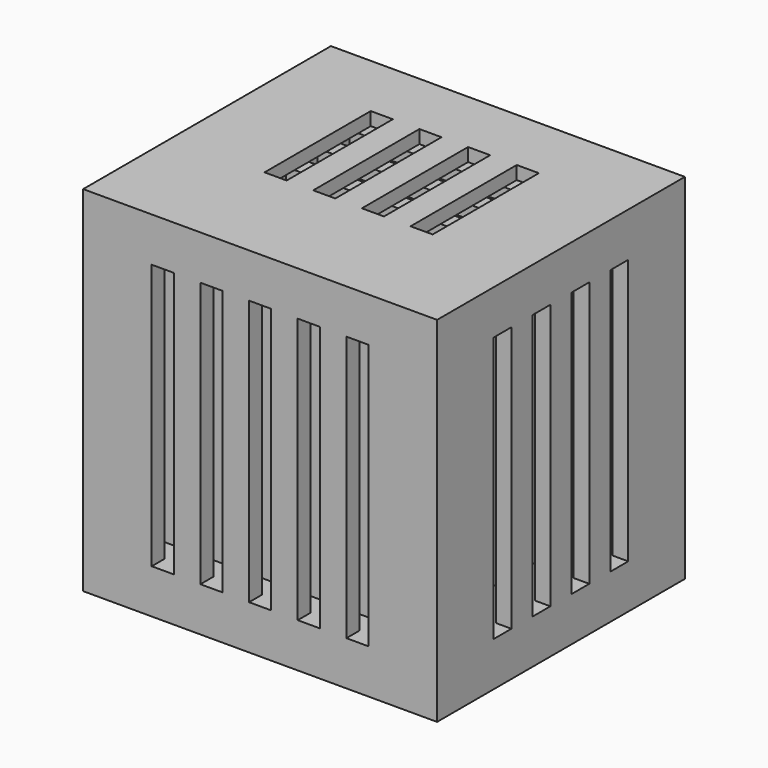
from build123d import *

# Parameters (mm, degrees)
SKETCH_W        = 40
SKETCH_H        = 35
PAD_DEPTH       = 40
SKETCH001_R     = 12.5
POCKET_DEPTH    = 40.001
SKETCH002_W     = 24.731892
SKETCH002_H     = 24.731892
POCKET001_DEPTH = 35
POCKET002_DEPTH = 35
SKETCH004_W     = 2.5
SKETCH004_H     = 30
POCKET003_DEPTH = 40.001
SKETCH005_W     = 2.5
SKETCH005_H     = 30
POCKET004_DEPTH = 21
SKETCH006_W     = 39.144078
SKETCH006_H     = 33.985684
PAD001_DEPTH    = 3
SKETCH007_W     = 18
SKETCH007_H     = 2
POCKET005_DEPTH = 5
SKETCH008_W     = 2.5
SKETCH008_H     = 15
POCKET006_DEPTH = 1.5
SKETCH009_W     = 21
SKETCH009_H     = 2.5
POCKET007_DEPTH = 1.5


with BuildPart() as part:
    # Sketch → Pad (new body)
    with BuildSketch(Plane.XY):
        with Locations((0, -2.5)):
            Rectangle(SKETCH_W, SKETCH_H)
    extrude(amount=PAD_DEPTH)

    # Sketch001 (on Face5 of Pad) → Pocket (cut, through all)
    with BuildSketch(Plane(origin=(0, 0, 0), x_dir=(1, 0, 0), z_dir=(0, 0, -1))):
        Circle(SKETCH001_R)
    extrude(amount=-POCKET_DEPTH, mode=Mode.SUBTRACT)

    # Sketch002 (on Face5 of Pocket) → Pocket001 (cut)
    with BuildSketch(Plane.XY.offset(40)):
        Rectangle(SKETCH002_W, SKETCH002_H)
    extrude(amount=-POCKET001_DEPTH, mode=Mode.SUBTRACT)

    # Sketch003 → Pocket002 (cut)
    with BuildSketch(Plane.XY.offset(40)):
        Polygon((-18.24138, 13.149356), (-15.24138, 13.149356), (-15.24138, -15.688641), (15.24138, -15.688641), (15.24138, 12.981641), (18.24138, 12.981641), (18.24138, -18.180522), (-18.24138, -18.180522), align=None)
    extrude(amount=-POCKET002_DEPTH, mode=Mode.SUBTRACT)

    # Sketch004 → Pocket003 (cut, through all)
    with BuildSketch(Plane.YZ.offset(20)):
        with Locations((-10.75, 20)):
            Rectangle(SKETCH004_W, SKETCH004_H)
        with Locations((-5.25, 20)):
            Rectangle(SKETCH004_W, SKETCH004_H)
        with Locations((0.25, 20)):
            Rectangle(SKETCH004_W, SKETCH004_H)
        with Locations((5.75, 20)):
            Rectangle(SKETCH004_W, SKETCH004_H)
    extrude(amount=-POCKET003_DEPTH, mode=Mode.SUBTRACT)

    # Sketch005 → Pocket004 (cut)
    with BuildSketch(Plane.XZ.offset(20)):
        with Locations((-5.5, 20)):
            Rectangle(SKETCH005_W, SKETCH005_H)
        with Locations((0, 20)):
            Rectangle(SKETCH005_W, SKETCH005_H)
        with Locations((5.5, 20)):
            Rectangle(SKETCH005_W, SKETCH005_H)
        with Locations((11, 20)):
            Rectangle(SKETCH005_W, SKETCH005_H)
        with Locations((-11, 20)):
            Rectangle(SKETCH005_W, SKETCH005_H)
    extrude(amount=-POCKET004_DEPTH, mode=Mode.SUBTRACT)

    # Sketch006 → Pad001 (join)
    with BuildSketch(Plane.XY.offset(40)):
        with Locations((0.008508, -2.623403)):
            Rectangle(SKETCH006_W, SKETCH006_H)
    extrude(amount=-PAD001_DEPTH)

    # Sketch007 (on Face89 of Pad001) → Pocket005 (cut)
    with BuildSketch(Plane.XY.offset(5)):
        with Locations((0, 5.022821)):
            Rectangle(SKETCH007_W, SKETCH007_H)
        Rectangle(SKETCH007_W, SKETCH007_H)
        with Locations((0, -5.022821)):
            Rectangle(SKETCH007_W, SKETCH007_H)
    extrude(amount=-POCKET005_DEPTH, mode=Mode.SUBTRACT)

    # Sketch008 (on Face117 of Pocket005) → Pocket006 (cut)
    with BuildSketch(Plane.XY.offset(40)):
        with Locations((-8.25, 0)):
            Rectangle(SKETCH008_W, SKETCH008_H)
        with Locations((8.25, 0)):
            Rectangle(SKETCH008_W, SKETCH008_H)
        with Locations((-2.75, 0)):
            Rectangle(SKETCH008_W, SKETCH008_H)
        with Locations((2.75, 0)):
            Rectangle(SKETCH008_W, SKETCH008_H)
    extrude(amount=-POCKET006_DEPTH, mode=Mode.SUBTRACT)

    # Sketch009 (on Face74 of Pocket006) → Pocket007 (cut)
    with BuildSketch(Plane(origin=(0, 0, 37), x_dir=(1, 0, 0), z_dir=(0, 0, -1))):
        with Locations((0, 4.5)):
            Rectangle(SKETCH009_W, SKETCH009_H)
        Rectangle(SKETCH009_W, SKETCH009_H)
        with Locations((0, -4.5)):
            Rectangle(SKETCH009_W, SKETCH009_H)
    extrude(amount=-POCKET007_DEPTH, mode=Mode.SUBTRACT)


solid = part.part
